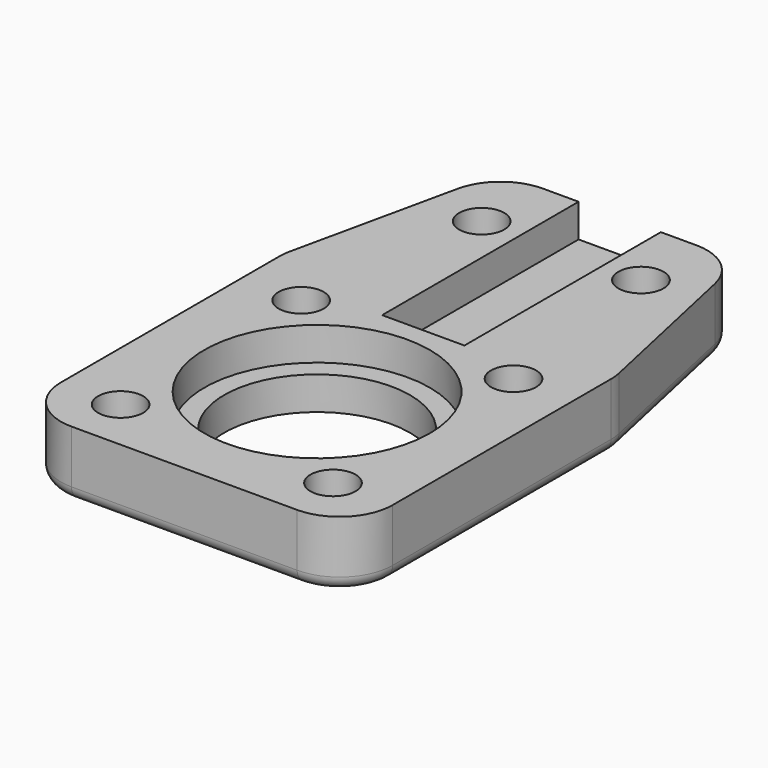
from build123d import *

# Parameters (mm, degrees)
SKETCH_R        = 7
SKETCH_R_2      = 1.7
PAD_DEPTH       = 5
SKETCH001_R     = 8.5
SKETCH001_W     = 6.2
SKETCH001_H     = 20
POCKET_DEPTH    = 2.5
FILLET_R        = 4
FILLET001_R     = 4
FILLET002_R     = 4
FILLET003_R     = 4
FILLET004_R     = 4
FILLET005_R     = 4
FILLET006_R     = 1
CHAMFER_SIZE    = 1.5
CHAMFER001_SIZE = 1.5
CHAMFER002_SIZE = 1.5
CHAMFER003_SIZE = 1.5
CHAMFER004_SIZE = 1.5
CHAMFER005_SIZE = 1.5


with BuildPart() as part:
    # Sketch → Pad (new body)
    with BuildSketch(Plane.XY):
        Polygon((-12.5, -12.5), (12.5, -12.5), (12.5, 12.5), (9, 28.5), (-9, 28.5), (-12.5, 12.5), align=None)
        Circle(SKETCH_R, mode=Mode.SUBTRACT)
        with Locations((-8, 8.5)):
            Circle(SKETCH_R_2, mode=Mode.SUBTRACT)
        with Locations((8, 8.5)):
            Circle(SKETCH_R_2, mode=Mode.SUBTRACT)
        with Locations((-8, -8.5)):
            Circle(SKETCH_R_2, mode=Mode.SUBTRACT)
        with Locations((8, -8.5)):
            Circle(SKETCH_R_2, mode=Mode.SUBTRACT)
        with Locations((-6, 23)):
            Circle(SKETCH_R_2, mode=Mode.SUBTRACT)
        with Locations((6, 23)):
            Circle(SKETCH_R_2, mode=Mode.SUBTRACT)
    extrude(amount=PAD_DEPTH)

    # Sketch001 → Pocket (cut)
    with BuildSketch(Plane.XY.offset(5)):
        Circle(SKETCH001_R)
        with Locations((0, 20)):
            Rectangle(SKETCH001_W, SKETCH001_H)
    extrude(amount=-POCKET_DEPTH, mode=Mode.SUBTRACT)

    # Fillet
    fillet_edges = [part.edges().sort_by_distance(p)[0] for p in [
        (-12.5, -12.5, 2.5),
    ]]
    fillet(fillet_edges, radius=FILLET_R)

    # Fillet001
    fillet001_edges = [part.edges().sort_by_distance(p)[0] for p in [
        (12.5, -12.5, 2.5),
    ]]
    fillet(fillet001_edges, radius=FILLET001_R)

    # Fillet002
    fillet002_edges = [part.edges().sort_by_distance(p)[0] for p in [
        (-12.5, 12.5, 2.5),
    ]]
    fillet(fillet002_edges, radius=FILLET002_R)

    # Fillet003
    fillet003_edges = [part.edges().sort_by_distance(p)[0] for p in [
        (12.5, 12.5, 2.5),
    ]]
    fillet(fillet003_edges, radius=FILLET003_R)

    # Fillet004
    fillet004_edges = [part.edges().sort_by_distance(p)[0] for p in [
        (9, 28.5, 2.5),
    ]]
    fillet(fillet004_edges, radius=FILLET004_R)

    # Fillet005
    fillet005_edges = [part.edges().sort_by_distance(p)[0] for p in [
        (-9, 28.5, 2.5),
    ]]
    fillet(fillet005_edges, radius=FILLET005_R)

    # Fillet006
    fillet006_edges = [part.edges().sort_by_distance(p)[0] for p in [
        (0, 28.5, 0),
    ]]
    fillet(fillet006_edges, radius=FILLET006_R)

    # Chamfer
    chamfer_edges = [part.edges().sort_by_distance(p)[0] for p in [
        (-9.7, -8.5, 0),
    ]]
    chamfer(chamfer_edges, length=CHAMFER_SIZE)

    # Chamfer001
    chamfer001_edges = [part.edges().sort_by_distance(p)[0] for p in [
        (-9.7, 8.5, 0),
    ]]
    chamfer(chamfer001_edges, length=CHAMFER001_SIZE)

    # Chamfer002
    chamfer002_edges = [part.edges().sort_by_distance(p)[0] for p in [
        (6.3, -8.5, 0),
    ]]
    chamfer(chamfer002_edges, length=CHAMFER002_SIZE)

    # Chamfer003
    chamfer003_edges = [part.edges().sort_by_distance(p)[0] for p in [
        (6.3, 8.5, 0),
    ]]
    chamfer(chamfer003_edges, length=CHAMFER003_SIZE)

    # Chamfer004
    chamfer004_edges = [part.edges().sort_by_distance(p)[0] for p in [
        (4.3, 23, 0),
    ]]
    chamfer(chamfer004_edges, length=CHAMFER004_SIZE)

    # Chamfer005
    chamfer005_edges = [part.edges().sort_by_distance(p)[0] for p in [
        (-7.7, 23, 0),
    ]]
    chamfer(chamfer005_edges, length=CHAMFER005_SIZE)


solid = part.part
